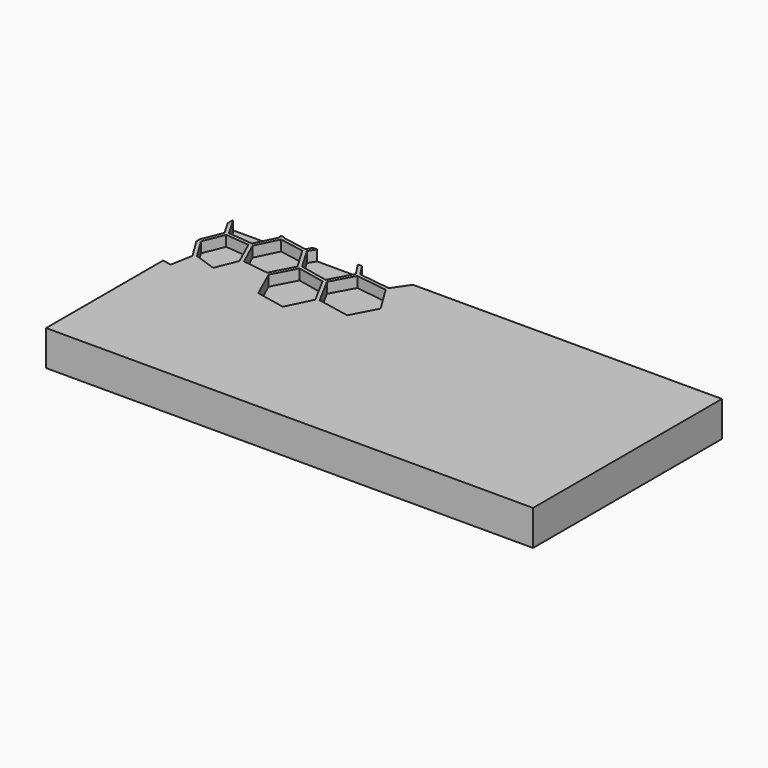
from build123d import *

# Parameters (mm, degrees)
F0_W     = 138.14
F0_H     = 66.97
F1_DEPTH = 10
F3_DEPTH = 3


with BuildPart() as f1:
    # F0 (on Top) → F1 (new body)
    with BuildSketch(Plane.XY):
        Rectangle(F0_W, F0_H)
    extrude(amount=F1_DEPTH)

    # F2 (on face) → F3 (cut)
    with BuildSketch(Plane.XY.offset(10)):
        Polygon((-94.401303, 29.512152), (-96.901064, 29.48907), (-92.479112, 18.870597), (-89.263459, 18.89299), (-91.045263, 23.928686), align=None)
        Polygon((-98.182123, 44.723282), (-99.772551, 40.383668), (-95.020214, 36.487265), (-95.032444, 36.472451), (-90.246517, 35.149534), (-88.213911, 39.604904), (-92.330456, 44.297296), align=None)
        Polygon((-66.159271, 48.767307), (-69.456916, 44.575832), (-66.179769, 39.886024), (-59.152636, 39.218192), (-55.921825, 44.107127), (-59.490083, 48.505308), align=None)
        Polygon((-70.076689, 34.049343), (-66.973864, 39.278309), (-70.405868, 44.189809), (-76.779811, 44.277487), (-79.938275, 39.652446), (-76.451322, 34.250364), align=None)
        Polygon((-54.394787, 52.867143), (-58.564214, 48.949553), (-54.946863, 44.491083), (-48.038241, 43.805853), (-44.107387, 48.727172), (-47.402621, 52.867143), align=None)
        Polygon((-66.156687, 49.767074), (-59.434272, 49.502835), (-55.289134, 53.397688), (-58.331153, 56.816773), (-64.875284, 56.374595), (-69.15926, 53.279177), align=None)
        Polygon((-70.247394, 45.18682), (-67.040526, 49.263401), (-70.117169, 52.861976), (-77.02493, 52.71177), (-80.271243, 49.119568), (-76.81564, 45.277254), align=None)
        Polygon((-80.800755, 40.161114), (-77.675019, 44.738441), (-81.163695, 48.61779), (-87.633929, 48.52994), (-91.405792, 44.758422), (-87.398112, 40.190053), align=None)
        Polygon((-80.810745, 39.162037), (-87.30475, 39.190459), (-89.384382, 34.632597), (-85.059754, 30.308141), (-79.797715, 28.65105), (-77.301916, 33.726193), align=None)
        Polygon((-70.294936, 33.056639), (-76.422555, 33.250081), (-78.953322, 28.104486), (-75.17543, 23.207111), (-69.111029, 20.999321), (-66.731157, 26.851849), (-70.323358, 33.040274), align=None)
        Polygon((-66.054196, 38.870409), (-69.338922, 33.334658), (-65.872467, 27.363101), (-58.791762, 26.674944), (-55.820539, 32.728149), (-59.335915, 38.231861), align=None)
        Polygon((-55.122735, 43.504407), (-58.374906, 38.582744), (-54.944796, 33.213218), (-47.852895, 31.939739), (-44.567135, 37.520449), (-48.101803, 42.808154), align=None)
        Polygon((-35.900997, 36.100036), (-43.711546, 37.003512), (-47.01901, 31.387145), (-43.221653, 24.962903), (-35.18235, 23.271706), (-31.695742, 29.616883), align=None)
        Polygon((-47.199188, 43.255844), (-43.690358, 38.006896), (-35.833129, 37.09808), (-31.527449, 42.687058), (-35.454858, 47.728783), (-43.315704, 48.117218), align=None)
        Polygon((-43.133803, 49.108716), (-35.611265, 48.736991), (-31.009823, 53.743403), (-34.512796, 57.605011), (-42.119912, 57.338533), (-46.481747, 53.314489), align=None)
        Polygon((-54.368432, 53.866221), (-47.356973, 53.866221), (-42.97085, 57.91283), (-45.92278, 60.969319), (-52.977991, 60.465301), (-57.381685, 57.252578), align=None)
        Polygon((-64.771242, 57.383147), (-58.298252, 57.820329), (-53.935555, 61.003425), (-56.310604, 63.254968), (-63.013038, 61.944281), (-67.491662, 59.63779), align=None)
        Polygon((-70.057913, 53.862604), (-65.800637, 56.938729), (-68.523812, 59.195612), (-75.357331, 57.696995), (-79.732258, 55.810977), (-76.911759, 53.713603), align=None)
        Polygon((-75.618297, 58.662828), (-75.444665, 58.700724), (-75.446043, 58.701929), (-73.837183, 60.749522), (-82.555342, 57.313211), (-80.418521, 56.600766), align=None)
        Polygon((-81.168346, 49.61704), (-77.916348, 53.215443), (-80.841751, 55.390848), (-87.401385, 53.983182), (-92.221591, 51.701151), (-87.295965, 49.533841), align=None)
        Polygon((-92.281363, 45.295513), (-88.57289, 49.004158), (-93.396368, 51.126509), (-97.497754, 45.675162), align=None)
        Polygon((-85.698475, 29.534028), (-90.289409, 34.124618), (-94.686212, 35.340392), (-93.646654, 30.196176), (-90.29182, 24.614777), (-85.860566, 24.163641), align=None)
        Polygon((-92.114276, 17.87393), (-89.820359, 7.934141), (-86.298093, 6.564199), (-86.589721, 11.335139), (-88.911026, 17.896324), align=None)
        Polygon((-85.716734, 11.863617), (-82.462496, 11.14342), (-82.07699, 16.56979), (-85.688828, 23.141998), (-89.857222, 23.566089), align=None)
        Polygon((-81.244311, 17.129273), (-76.455456, 16.2413), (-75.798648, 22.379771), (-79.838539, 27.616488), (-84.710593, 29.150762), (-84.873719, 23.733521), align=None)
        Polygon((-72.253128, 8.628155), (-66.516872, 7.497303), (-65.396871, 13.844719), (-69.163911, 19.955113), (-74.832643, 22.019069), (-75.46878, 16.071801), align=None)
        Polygon((-64.533358, 14.348392), (-58.218326, 12.186422), (-55.698411, 18.387077), (-59.019311, 25.693436), (-65.853347, 26.357306), (-68.271631, 20.411932), align=None)
        Polygon((-58.036597, 25.945617), (-54.813883, 18.856127), (-47.411061, 17.84792), (-44.019193, 24.348987), (-47.912667, 30.935149), (-54.965811, 32.202255), align=None)
        Polygon((-42.845449, 8.969564), (-34.52072, 7.246328), (-31.001727, 14.397485), (-35.25263, 22.265566), (-43.116233, 23.919556), (-46.575798, 17.288953), align=None)
        Polygon((-20.787019, 12.955195), (-17.014984, 20.076036), (-21.819859, 27.873837), (-30.841358, 29.097018), (-34.35415, 22.704988), (-30.081025, 14.795393), (-30.098251, 14.786091), align=None)
        Polygon((-21.756297, 28.873259), (-17.303166, 35.360891), (-22.109936, 41.834914), (-30.65739, 42.179079), (-34.998382, 36.544453), (-30.819482, 30.102297), align=None)
        Polygon((-22.077896, 42.833647), (-17.43408, 48.429344), (-21.690495, 53.119841), (-30.116682, 53.238697), (-34.64371, 48.313244), (-30.643782, 43.178501), align=None)
        Polygon((-21.614875, 54.118058), (-16.960379, 59.11758), (-20.57394, 63.145069), (-28.926918, 62.223506), (-33.485296, 57.959339), (-30.109275, 54.237602), align=None)
        Polygon((-19.167996, 71.145786), (-27.073112, 69.600317), (-31.828895, 66.251512), (-28.95534, 63.225512), (-20.60684, 64.14673), (-16.732314, 68.133567), align=None)
        Polygon((-29.855716, 62.722873), (-32.85915, 65.885815), (-40.440083, 64.785796), (-44.971245, 61.422177), (-41.996922, 58.342434), (-34.248213, 58.613907), align=None)
        Polygon((-41.253815, 65.426239), (-43.424569, 67.757018), (-50.238451, 66.409986), (-55.308771, 63.682159), (-52.972651, 61.467307), (-45.906416, 61.972186), align=None)
        Polygon((-55.72201, 68.329421), (-60.541526, 65.598149), (-62.053234, 63.149892), (-56.323868, 64.270237), (-50.818261, 67.232503), (-50.004529, 69.61582), align=None)
        Polygon((-63.401644, 62.868083), (-61.957805, 65.206614), (-66.724267, 64.081101), (-71.983033, 61.492112), (-73.912286, 59.036793), (-68.563431, 60.209675), align=None)
        Polygon((-60.214759, 70.397856), (-64.6672, 70.784396), (-69.913219, 66.893333), (-64.07895, 68.189722), align=None)
        Polygon((-65.342094, 66.885754), (-71.956505, 65.415731), (-78.471181, 61.67608), (-73.492846, 61.959267), (-72.50841, 62.347357), (-67.063781, 65.027469), (-67.048278, 65.031259), align=None)
        Polygon((-84.390544, 56.871722), (-86.078641, 56.815567), (-88.63628, 55.473186), (-87.51025, 54.981571), (-82.162945, 56.129304), align=None)
        Polygon((-88.769088, 54.441035), (-89.763515, 54.87529), (-93.955679, 52.751733), (-93.139881, 52.371911), align=None)
        Polygon((-95.049325, 52.158832), (-98.402092, 49.493878), (-99.512618, 47.878473), (-98.205721, 46.395876), (-94.175649, 51.751966), align=None)
        Polygon((-99.992176, 46.911435), (-100.945089, 44.63371), (-101.685785, 40.94384), (-100.640543, 40.918691), (-98.898875, 45.6712), align=None)
        Polygon((-100.730632, 39.877066), (-101.721269, 39.838998), (-101.408282, 36.525161), (-97.309997, 30.484358), (-94.729276, 30.508301), (-95.806557, 35.839931), align=None)
    extrude(amount=-F3_DEPTH, mode=Mode.SUBTRACT)


solid = f1.part
